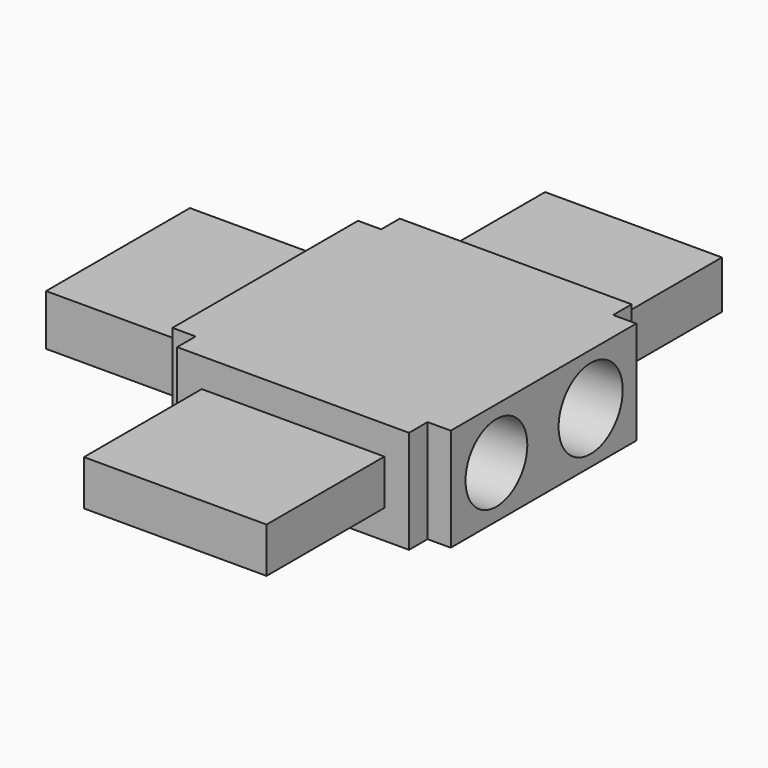
from build123d import *

# Parameters (mm, degrees)
F0_W      = 20
F0_H      = 2
F0_W_2    = 2
F0_H_2    = 20
F1_DEPTH  = 4.445
F2_W      = 15.5
F2_H      = 4.39
F3_DEPTH  = 12.7
F4_W      = 15.75
F4_H      = 3.9
F5_DEPTH  = 12.7
F6_W      = 15.25
F6_H      = 4.14
F7_DEPTH  = 12.7
F8_R      = 3.33175
F8_R_2    = 3.45675
F9_DEPTH  = 7.62
F10_R     = 1.6625
F10_R_2   = 1.625
F10_R_3   = 1.5625
F11_DEPTH = 5.08


with BuildPart() as f1:
    # F0 (on Top) → F1 (new body, symmetric)
    with BuildSketch(Plane.XY):
        with Locations((0, 11)):
            Rectangle(F0_W, F0_H)
        with Locations((11, 0)):
            Rectangle(F0_W_2, F0_H_2)
        Rectangle(F0_W, F0_H_2)
        with Locations((-11, 0)):
            Rectangle(F0_W_2, F0_H_2)
        with Locations((0, -11)):
            Rectangle(F0_W, F0_H)
    extrude(amount=F1_DEPTH, both=True)

    # F2 (on face) → F3 (join)
    with BuildSketch(Plane(origin=(-12, 0, 0), x_dir=(0, -1, 0), z_dir=(-1, 0, 0))):
        Rectangle(F2_W, F2_H)
    extrude(amount=F3_DEPTH)

    # F4 (on face) → F5 (join)
    with BuildSketch(Plane.XZ.offset(12)):
        Rectangle(F4_W, F4_H)
    extrude(amount=F5_DEPTH)

    # F6 (on face) → F7 (join)
    with BuildSketch(Plane(origin=(0, 12, 0), x_dir=(-1, 0, 0), z_dir=(0, 1, 0))):
        Rectangle(F6_W, F6_H)
    extrude(amount=F7_DEPTH)

    # F8 (on face) → F9 (cut)
    with BuildSketch(Plane.YZ.offset(12)):
        with Locations((-5.08, 0)):
            Circle(F8_R)
        with Locations((5.08, 0)):
            Circle(F8_R_2)
    extrude(amount=-F9_DEPTH, mode=Mode.SUBTRACT)

    # F10 (on face) → F11 (cut)
    with BuildSketch(Plane(origin=(0, 0, -4.445), x_dir=(1, 0, 0), z_dir=(0, 0, -1))):
        with Locations((-5.08, -6.35)):
            Circle(F10_R)
        with Locations((-5.08, 0)):
            Circle(F10_R_2)
        with Locations((-5.08, 6.35)):
            Circle(F10_R_3)
    extrude(amount=-F11_DEPTH, mode=Mode.SUBTRACT)


solid = f1.part
